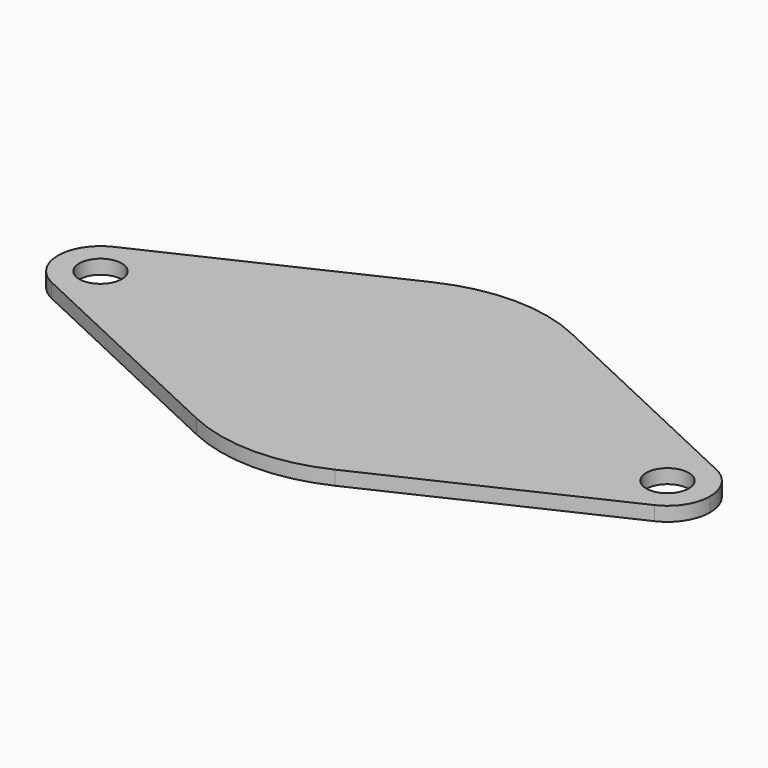
from build123d import *

# Parameters (mm, degrees)
F0_R     = 1.5
F0_R_2   = 8.5
F1_DEPTH = 1


with BuildPart() as f1:
    # F0 (on Top) → F1 (new body)
    with BuildSketch(Plane.XY):
        with BuildLine():
            ThreePointArc((-16.939914, 0.01004), (-18.331343, 2.542331), (-21.214914, 2.72562))
            ThreePointArc((-21.214914, 2.72562), (-22.939914, 0.01004), (-21.214914, -2.705541))
            ThreePointArc((-21.214914, -2.705541), (-18.331343, -2.522252), (-16.939914, 0.01004))
        make_face()
        with Locations((-19.939914, 0.01004)):
            Circle(F0_R, mode=Mode.SUBTRACT)
        with BuildLine():
            ThreePointArc((-4.827414, -10.399684), (-11.439914, 0.01004), (-4.827414, 10.419763))
            Line((-4.827414, 10.419763), (-21.214914, 2.72562))
            ThreePointArc((-21.214914, 2.72562), (-18.331343, 2.542331), (-16.939914, 0.01004))
            ThreePointArc((-16.939914, 0.01004), (-18.331343, -2.522252), (-21.214914, -2.705541))
            Line((-21.214914, -2.705541), (-4.827414, -10.399684))
        make_face()
        with BuildLine():
            ThreePointArc((4.947586, -10.399684), (9.767203, -6.156149), (11.560086, 0.01004))
            ThreePointArc((11.560086, 0.01004), (9.767203, 6.176228), (4.947586, 10.419763))
            ThreePointArc((4.947586, 10.419763), (0.060086, 11.51004), (-4.827414, 10.419763))
            ThreePointArc((-4.827414, 10.419763), (-11.439914, 0.01004), (-4.827414, -10.399684))
            ThreePointArc((-4.827414, -10.399684), (0.060086, -11.48996), (4.947586, -10.399684))
        make_face()
        with Locations((0.060086, 0.01004)):
            Circle(F0_R_2, mode=Mode.SUBTRACT)
        with Locations((0.060086, 0.01004)):
            Circle(F0_R_2)
        with BuildLine():
            ThreePointArc((4.947586, 10.419763), (9.767203, 6.176228), (11.560086, 0.01004))
            ThreePointArc((11.560086, 0.01004), (9.767203, -6.156149), (4.947586, -10.399684))
            Line((4.947586, -10.399684), (21.335086, -2.705541))
            ThreePointArc((21.335086, -2.705541), (17.060086, 0.01004), (21.335086, 2.72562))
            Line((21.335086, 2.72562), (4.947586, 10.419763))
        make_face()
        with BuildLine():
            ThreePointArc((23.060086, 0.01004), (22.592377, 1.61861), (21.335086, 2.72562))
            ThreePointArc((21.335086, 2.72562), (17.060086, 0.01004), (21.335086, -2.705541))
            ThreePointArc((21.335086, -2.705541), (22.592377, -1.598531), (23.060086, 0.01004))
        make_face()
        with Locations((20.060086, 0.01004)):
            Circle(F0_R, mode=Mode.SUBTRACT)
    extrude(amount=F1_DEPTH)


solid = f1.part
